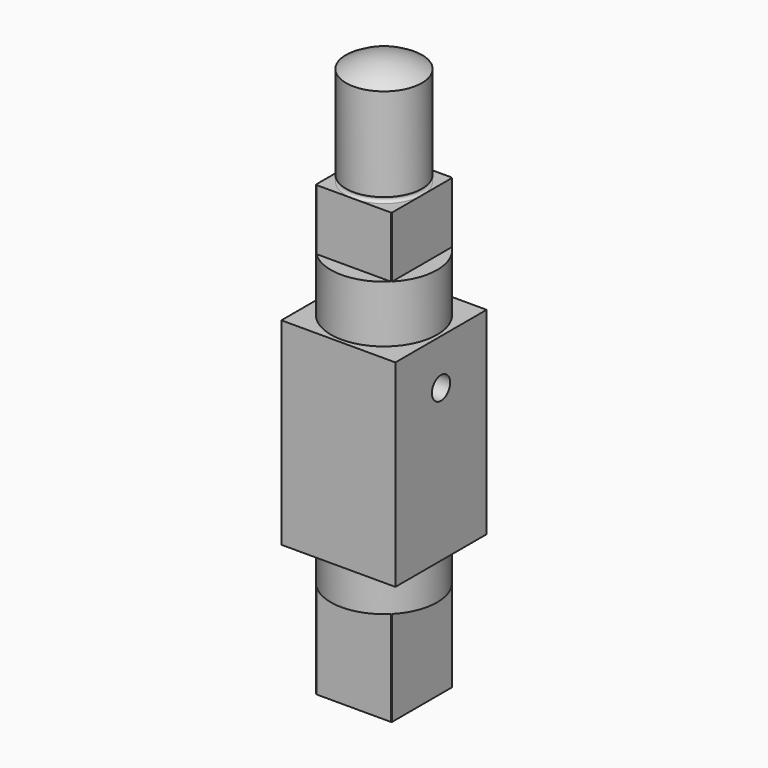
from build123d import *

# Parameters (mm, degrees)
F0_W      = 15
F0_H      = 15
F1_DEPTH  = 13
F2_R      = 7
F3_DEPTH  = 5
F5_DEPTH  = 12.5
F6_R      = 7
F7_DEPTH  = 7.5
F9_DEPTH  = 8
F10_R     = 5
F11_DEPTH = 13
F16_R     = 1.5
F17_DEPTH = 25


with BuildPart() as f1:
    # F0 (on Top) → F1 (new body, symmetric)
    with BuildSketch(Plane.XY):
        Rectangle(F0_W, F0_H)
    extrude(amount=F1_DEPTH, both=True)

    # F2 (on face) → F3 (join)
    with BuildSketch(Plane(origin=(0, 0, -13), x_dir=(1, 0, 0), z_dir=(0, 0, -1))):
        Circle(F2_R)
    extrude(amount=F3_DEPTH)

    # F4 (on face) → F5 (join)
    with BuildSketch(Plane(origin=(0, 0, -18), x_dir=(1, 0, 0), z_dir=(0, 0, -1))):
        with BuildLine():
            Line((-4.8989794856, -5), (4.8989794856, -5))
            ThreePointArc((4.8989794856, -5), (4.9497474683, -4.9497474683), (5, -4.8989794856))
            Line((5, -4.8989794856), (5, 4.8989794856))
            ThreePointArc((5, 4.8989794856), (4.9497474683, 4.9497474683), (4.8989794856, 5))
            Line((4.8989794856, 5), (-4.8989794856, 5))
            ThreePointArc((-4.8989794856, 5), (-4.9497474683, 4.9497474683), (-5, 4.8989794856))
            Line((-5, 4.8989794856), (-5, -4.8989794856))
            ThreePointArc((-5, -4.8989794856), (-4.9497474683, -4.9497474683), (-4.8989794856, -5))
        make_face()
    extrude(amount=F5_DEPTH)

    # F6 (on face) → F7 (join)
    with BuildSketch(Plane.XY.offset(13)):
        Circle(F6_R)
    extrude(amount=F7_DEPTH)

    # F8 (on face) → F9 (join)
    with BuildSketch(Plane.XY.offset(20.5)):
        with BuildLine():
            Line((-4.8989794856, -5), (4.8989794856, -5))
            ThreePointArc((4.8989794856, -5), (4.9497474683, -4.9497474683), (5, -4.8989794856))
            Line((5, -4.8989794856), (5, 4.8989794856))
            ThreePointArc((5, 4.8989794856), (4.9497474683, 4.9497474683), (4.8989794856, 5))
            Line((4.8989794856, 5), (-4.8989794856, 5))
            ThreePointArc((-4.8989794856, 5), (-4.9497474683, 4.9497474683), (-5, 4.8989794856))
            Line((-5, 4.8989794856), (-5, -4.8989794856))
            ThreePointArc((-5, -4.8989794856), (-4.9497474683, -4.9497474683), (-4.8989794856, -5))
        make_face()
    extrude(amount=F9_DEPTH)

    # F10 (on face) → F11 (join)
    with BuildSketch(Plane.XY.offset(28.5)):
        Circle(F10_R)
    extrude(amount=F11_DEPTH)

    # F12 (on Right) → F13 (revolve, cut)
    with BuildSketch(Plane.YZ):
        with BuildLine():
            Line((5, 28.5), (5, 29.2546096917))
            ThreePointArc((5, 29.2546096917), (4.6226951542, 28.8773048458), (5, 28.5))
        make_face()
    revolve(axis=Axis((0, 0, 28.5), (0, 0, -1)), mode=Mode.SUBTRACT)

    # F14 (on Front) → F15 (revolve)
    with BuildSketch(Plane.XZ):
        with BuildLine():
            Line((0, 41.5), (5, 41.5))
            ThreePointArc((5, 41.5), (2.6124860802, 42.6291713066), (0, 43.0166852265))
            Line((0, 43.0166852265), (0, 41.5))
        make_face()
    revolve(axis=Axis((0, 0, 41.5), (0, 0, 1)))

    # F16 (on face) → F17 (cut)
    with BuildSketch(Plane.YZ.offset(7.5)):
        with Locations((0, 7)):
            Circle(F16_R)
    extrude(amount=-F17_DEPTH, mode=Mode.SUBTRACT)


solid = f1.part
